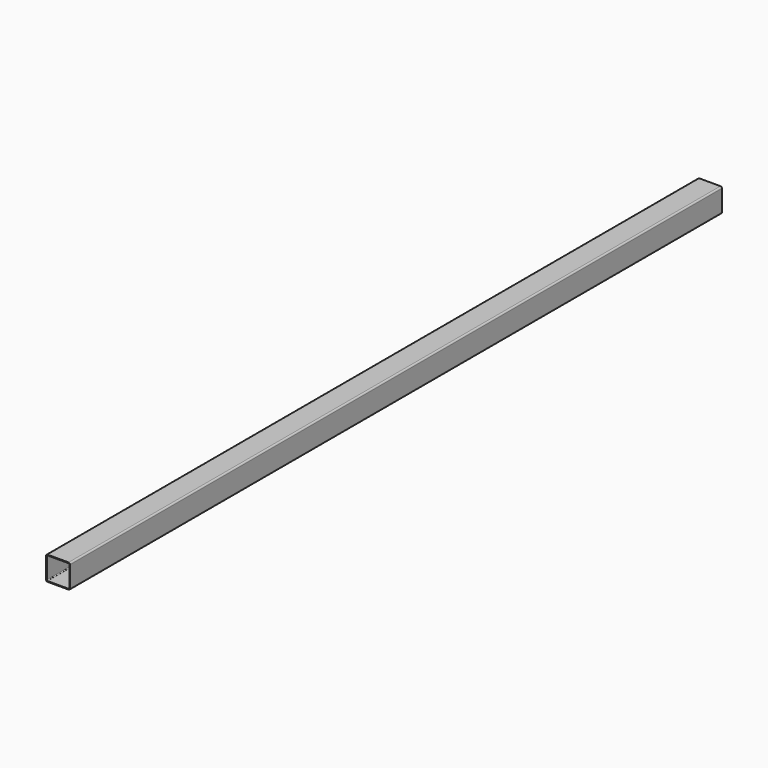
from build123d import *

# Parameters (mm, degrees)
F0_W     = 50.8
F0_H     = 50.8
F0_W_2   = 47.625
F0_H_2   = 47.625
F1_DEPTH = 1727.2
F2_R     = 3.175
F3_R     = 1.5875


with BuildPart() as f1:
    # F0 (on Front) → F1 (new body)
    with BuildSketch(Plane.XZ):
        with Locations((25.4, 25.4)):
            Rectangle(F0_W, F0_H)
        with Locations((25.4, 25.4)):
            Rectangle(F0_W_2, F0_H_2, mode=Mode.SUBTRACT)
    extrude(amount=F1_DEPTH)

    # F2
    f2_edges = [f1.edges().sort_by_distance(p)[0] for p in [
        (0, -863.6, 50.8),
        (50.8, -863.6, 50.8),
        (50.8, -863.6, 0),
        (0, -863.6, 0),
    ]]
    fillet(f2_edges, radius=F2_R)

    # F3
    f3_edges = [f1.edges().sort_by_distance(p)[0] for p in [
        (1.5875, -863.6, 49.2125),
        (49.2125, -863.6, 49.2125),
        (1.5875, -863.6, 1.5875),
        (49.2125, -863.6, 1.5875),
    ]]
    fillet(f3_edges, radius=F3_R)


solid = f1.part
